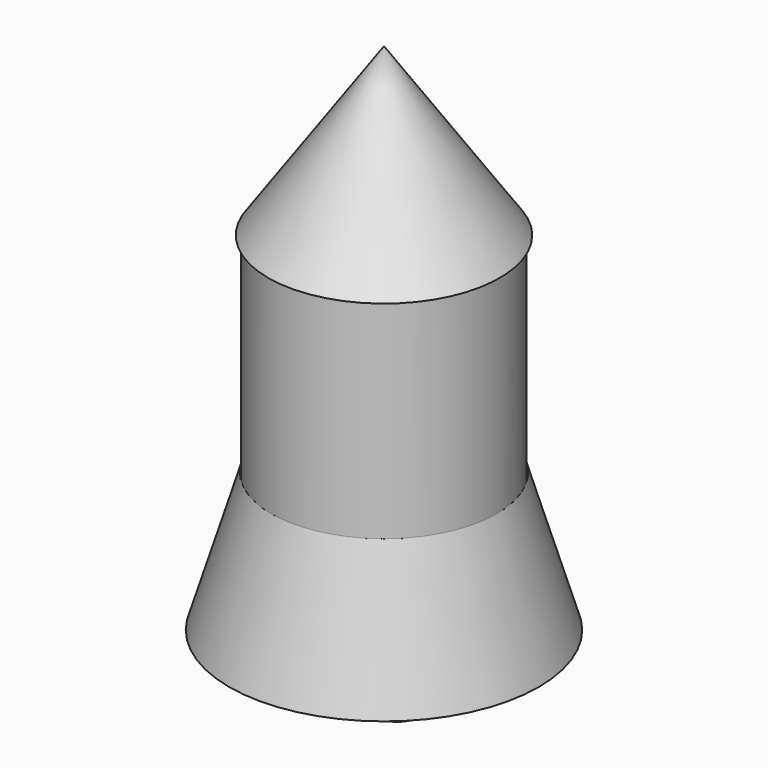
from build123d import *

# Parameters (mm, degrees)
F0_R      = 33.6543994883
F1_DEPTH  = 105
F3_D      = 60
F3_DEPTH  = 75
F3_TIP    = 18.0258185708
F8_R      = 7.377658539
F9_DEPTH  = 10
F10_R     = 7.1583566922
F11_DEPTH = 10
F12_R     = 7.206639497
F13_DEPTH = 10
F14_R     = 7.207990809
F15_DEPTH = 10


with BuildPart() as f1:
    # F0 (on Top) → F1 (new body)
    with BuildSketch(Plane.XY):
        Circle(F0_R)
    extrude(amount=F1_DEPTH)

    # F3
    with Locations(Plane.XY.offset(105)):
        with Locations((0, 0)):
            Hole(F3_D / 2, depth=F3_DEPTH)
            with Locations((0, 0, -(F3_DEPTH + F3_TIP / 2))):  # 118° drill point
                Cone(0, F3_D / 2, F3_TIP, mode=Mode.SUBTRACT)

    # F8 (on face) → F9 (join)
    with BuildSketch(Plane.XY):
        with Locations((15.0760132819, -14.0118245035)):
            Circle(F8_R)
    extrude(amount=-F9_DEPTH)

    # F10 (on face) → F11 (join)
    with BuildSketch(Plane.XY):
        with Locations((-13.5388514027, 11.5287164226)):
            Circle(F10_R)
    extrude(amount=-F11_DEPTH)

    # F12 (on face) → F13 (join)
    with BuildSketch(Plane.XY):
        with Locations((15.7854743302, 12.2381756082)):
            Circle(F12_R)
    extrude(amount=-F13_DEPTH)

    # F14 (on face) → F15 (join)
    with BuildSketch(Plane.XY):
        with Locations((-13.5388514027, -14.0118245035)):
            Circle(F14_R)
    extrude(amount=-F15_DEPTH)


with BuildPart() as f5:
    # F4 (on Front) → F5 (revolve)
    with BuildSketch(Plane.XZ):
        Polygon((-34.9076794685, 104.7491133213), (0, 104.7491133213), (0, 154.9383550882), align=None)
    revolve(axis=Axis((0, 0, 105), (0, 0, 1)))


with BuildPart() as f7:
    # F6 (on Right) → F7 (revolve)
    with BuildSketch(Plane.YZ):
        Polygon((33.9526087046, 41.8312810361), (33.9526087046, 0), (46.6738604009, 0), align=None)
    revolve(axis=Axis((0, 0, 0), (0, 0, -1)))


solid = Compound([f1.part, f5.part, f7.part])
